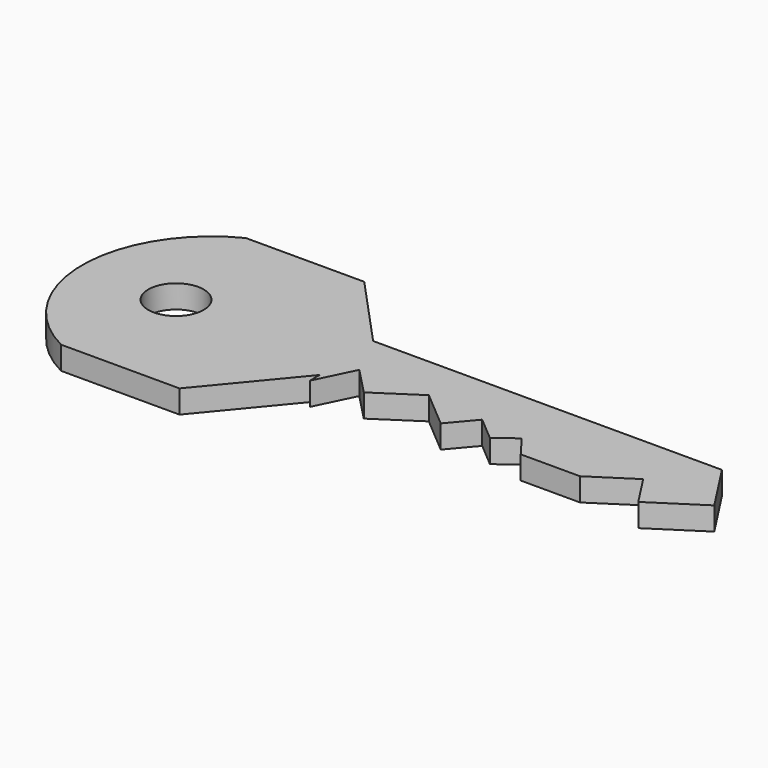
from build123d import *

# Parameters (mm, degrees)
F1_DEPTH = 2.5
F2_R     = 3
F3_DEPTH = 25


with BuildPart() as f1:
    # F0 (on Top) → F1 (new body)
    with BuildSketch(Plane.XY):
        with BuildLine():
            Line((18.500206, 13.484339), (5.681507, 13.484339))
            ThreePointArc((5.681507, 13.484339), (-2.025628, 0.984339), (5.681507, -11.515661))
            Line((5.681507, -11.515661), (18.500206, -11.515661))
            Line((18.500206, -11.515661), (26.226566, -2.179502))
            Line((26.226566, -2.179502), (26.226566, -3.515661))
            Line((26.226566, -3.515661), (28.245927, 0.636009))
            Line((28.245927, 0.636009), (31.124004, -2.351236))
            Line((31.124004, -2.351236), (35.732787, 0.682989))
            Line((35.732787, 0.682989), (39.747892, -2.72324))
            Line((39.747892, -2.72324), (42.058162, 0))
            Line((42.058162, 0), (44.656219, -2.204071))
            Line((44.656219, -2.204071), (46.799748, -0.583421))
            Line((46.799748, -0.583421), (48.568681, -2.923074))
            Line((48.568681, -2.923074), (54.981848, -2.923074))
            Line((54.981848, -2.923074), (59.484062, 0))
            Line((59.484062, 0), (61.766614, -3.515661))
            Line((61.766614, -3.515661), (67.18155, 0))
            Line((67.18155, 0), (63.620829, 5.484339))
            Line((63.620829, 5.484339), (25.8629, 5.484339))
            Line((25.8629, 5.484339), (18.500206, 13.484339))
        make_face()
    extrude(amount=F1_DEPTH)

    # F2 (on face) → F3 (cut)
    with BuildSketch(Plane.XY.offset(2.5)):
        with Locations((8.123178, 0.984339)):
            Circle(F2_R)
    extrude(amount=-F3_DEPTH, mode=Mode.SUBTRACT)


solid = f1.part
